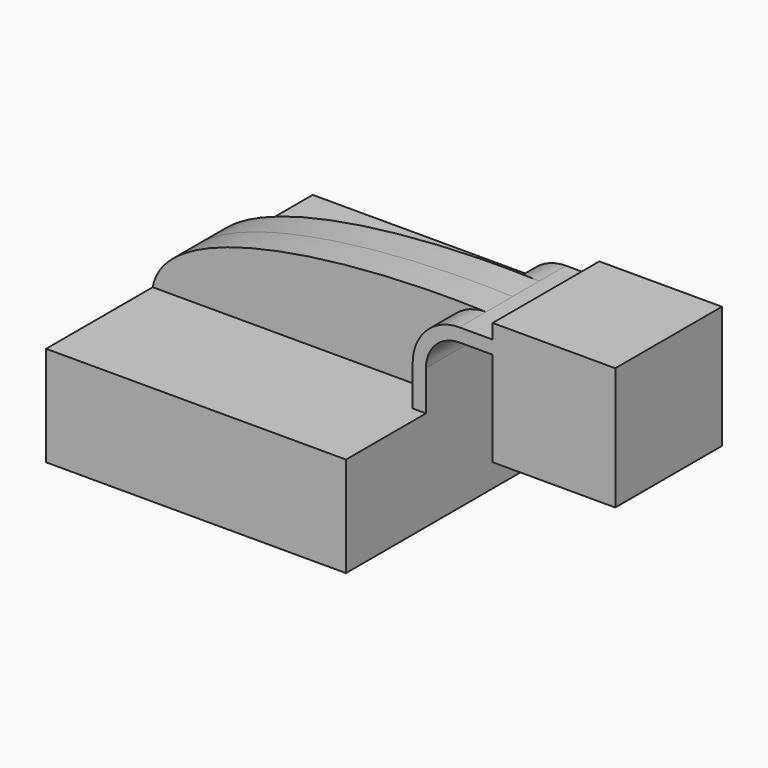
from build123d import *

# Parameters (mm, degrees)
F1_DEPTH = 63.5
F2_DEPTH = 12.7
F3_DEPTH = 25.4


with BuildPart() as f1:
    # F0 (on Front) → F1 (new body, symmetric)
    with BuildSketch(Plane.XZ):
        Polygon((57.15, -19.05), (57.15, 19.05), (52.07, 19.05), (-57.15, 19.05), (-57.15, -19.05), align=None)
    extrude(amount=F1_DEPTH, both=True)

    # F0 (on Front) → F2 (join, symmetric)
    with BuildSketch(Plane.XZ):
        with BuildLine():
            Line((-57.15, 19.05), (52.07, 19.05))
            Line((52.07, 19.05), (52.07, 34.29))
            ThreePointArc((52.07, 34.29), (57.277641, 46.862359), (69.85, 52.07))
            add(Edge.make_bspline(
                [(-57.15, 19.05), (-52.152008, 47.089871), (23.740247, 53.854882), (69.85, 52.07)],
                knots=[0, 0, 0, 0, 131.222408, 131.222408, 131.222408, 131.222408], degree=3))
        make_face()
    extrude(amount=F2_DEPTH, both=True)

    # F0 (on Front) → F3 (join, symmetric)
    with BuildSketch(Plane.XZ):
        Polygon((82.55, 52.07), (82.55, 46.99), (82.55, 10.928008), (129.273983, 10.928008), (129.273983, 57.651992), (82.55, 57.651992), align=None)
        with BuildLine():
            Line((52.07, 19.05), (57.15, 19.05))
            Line((57.15, 19.05), (57.15, 34.29))
            ThreePointArc((57.15, 34.29), (60.869744, 43.270256), (69.85, 46.99))
            Line((69.85, 46.99), (82.55, 46.99))
            Line((82.55, 46.99), (82.55, 52.07))
            Line((82.55, 52.07), (69.85, 52.07))
            ThreePointArc((69.85, 52.07), (57.277641, 46.862359), (52.07, 34.29))
            Line((52.07, 34.29), (52.07, 19.05))
        make_face()
    extrude(amount=F3_DEPTH, both=True)


solid = f1.part
